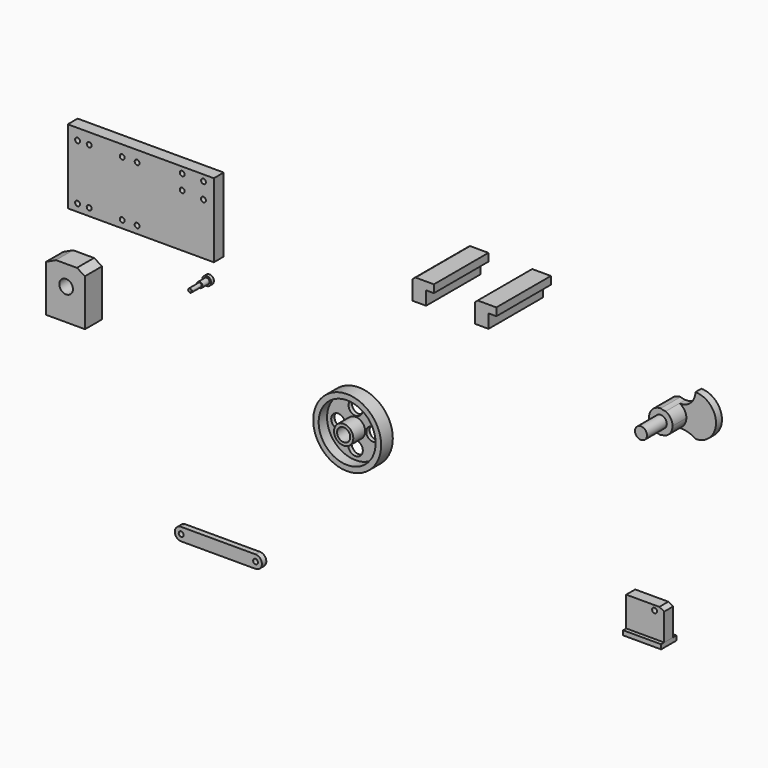
from build123d import *

# Parameters (mm, degrees)
F0_R      = 2.006248
F1_DEPTH  = 25.4
F0_R_2    = 2.867219
F2_DEPTH  = 12.7
F0_R_3    = 4.599774
F3_DEPTH  = 3.81
F4_R      = 0.490568
F0_R_4    = 6.143117
F5_DEPTH  = 50.8
F6_DEPTH  = 25.4
F7_DEPTH  = 7.62
F0_R_5    = 9.884169
F0_R_6    = 6.763319
F8_DEPTH  = 19.5072
F0_R_7    = 34.868966
F0_R_8    = 29.269133
F9_DEPTH  = 15.0114
F0_R_9    = 7.462005
F0_R_10   = 7.192248
F0_R_11   = 6.804936
F0_R_12   = 7.215767
F10_DEPTH = 4.2418
F0_W      = 150.0124
F0_H      = 75.9968
F0_R_13   = 2.5019
F0_R_14   = 2.546456
F0_R_15   = 2.478176
F11_DEPTH = 12.7
F0_W_2    = 40.005
F0_H_2    = 47.9806
F0_R_16   = 7.000389
F12_DEPTH = 21.9964
F0_W_3    = 39.055347
F0_H_3    = 4.657001
F13_DEPTH = 9.7917
F0_R_17   = 2.516641
F14_DEPTH = 5.7912
F0_R_18   = 2.499653
F15_DEPTH = 5.6642
F0_W_4    = 14.001787
F0_H_4    = 13.9954
F0_W_5    = 13.9954
F16_DEPTH = 70.0024


with BuildPart() as f1:
    # F0 (on Front) → F1 (new body)
    with BuildSketch(Plane.XZ):
        with Locations((-121.826321, -89.848548)):
            Circle(F0_R)
    extrude(amount=F1_DEPTH)

    # F0 (on Front) → F2 (join)
    with BuildSketch(Plane.XZ):
        with Locations((-121.826321, -89.848548)):
            Circle(F0_R_2)
        with Locations((-121.826321, -89.848548)):
            Circle(F0_R, mode=Mode.SUBTRACT)
    extrude(amount=F2_DEPTH)

    # F0 (on Front) → F3 (join)
    with BuildSketch(Plane.XZ):
        with Locations((-121.826321, -89.848548)):
            Circle(F0_R_3)
        with Locations((-121.826321, -89.848548)):
            Circle(F0_R_2, mode=Mode.SUBTRACT)
    extrude(amount=F3_DEPTH)

    # F4
    f4_edges = [f1.edges().sort_by_distance(p)[0] for p in [
        (-126.426095, 0, -89.848548),
        (-123.832569, -25.4, -89.848548),
    ]]
    fillet(f4_edges, radius=F4_R)


with BuildPart() as f5:
    # F0 (on Front) → F5 (new body)
    with BuildSketch(Plane.XZ):
        with Locations((361.786572, -51.028976)):
            Circle(F0_R_4)
    extrude(amount=F5_DEPTH)

    # F0 (on Front) → F6 (join)
    with BuildSketch(Plane.XZ):
        with BuildLine():
            ThreePointArc((361.786572, -63.065374), (363.896659, -62.586014), (366.039999, -62.288783))
            ThreePointArc((366.039999, -62.288783), (371.687855, -57.872913), (373.82297, -51.028976))
            ThreePointArc((373.82297, -51.028976), (371.919023, -44.532183), (366.809523, -40.090748))
            ThreePointArc((366.809523, -40.090748), (364.252296, -39.750928), (361.786572, -38.992578))
            ThreePointArc((361.786572, -38.992578), (349.750174, -51.028976), (361.786572, -63.065374))
        make_face()
        with Locations((361.786572, -51.028976)):
            Circle(F0_R_4, mode=Mode.SUBTRACT)
    extrude(amount=F6_DEPTH)

    # F0 (on Front) → F7 (join)
    with BuildSketch(Plane.XZ):
        with BuildLine():
            Line((383.103815, -24.575638), (383.103815, -66.860532))
            ThreePointArc((383.103815, -66.860532), (404.246262, -45.718085), (383.103815, -24.575638))
        make_face()
        with BuildLine():
            ThreePointArc((366.039999, -62.288783), (374.984062, -63.036309), (383.103815, -66.860532))
            Line((383.103815, -66.860532), (383.103815, -24.575638))
            ThreePointArc((383.103815, -24.575638), (378.281818, -35.825333), (366.809523, -40.090748))
            ThreePointArc((366.809523, -40.090748), (371.919023, -44.532183), (373.82297, -51.028976))
            ThreePointArc((373.82297, -51.028976), (371.687855, -57.872913), (366.039999, -62.288783))
        make_face()
    extrude(amount=F7_DEPTH)


with BuildPart() as f8:
    # F0 (on Front) → F8 (new body)
    with BuildSketch(Plane.XZ):
        with Locations((31.381525, -172.658786)):
            Circle(F0_R_5)
        with Locations((31.381525, -172.658786)):
            Circle(F0_R_6, mode=Mode.SUBTRACT)
    extrude(amount=F8_DEPTH)


with BuildPart() as f9:
    # F0 (on Front) → F9 (new body)
    with BuildSketch(Plane.XZ):
        with Locations((31.381525, -172.658786)):
            Circle(F0_R_7)
        with Locations((31.381525, -172.658786)):
            Circle(F0_R_8, mode=Mode.SUBTRACT)
    extrude(amount=F9_DEPTH)


with BuildPart() as f10:
    # F0 (on Front) → F10 (new body)
    with BuildSketch(Plane.XZ):
        with Locations((31.381525, -172.658786)):
            Circle(F0_R_8)
        with Locations((31.381525, -190.806657)):
            Circle(F0_R_9, mode=Mode.SUBTRACT)
        with Locations((13.569722, -172.658786)):
            Circle(F0_R_10, mode=Mode.SUBTRACT)
        with Locations((31.381525, -172.658786)):
            Circle(F0_R_5, mode=Mode.SUBTRACT)
        with Locations((49.193326, -172.658786)):
            Circle(F0_R_11, mode=Mode.SUBTRACT)
        with Locations((31.381525, -154.510915)):
            Circle(F0_R_12, mode=Mode.SUBTRACT)
    extrude(amount=F10_DEPTH)


with BuildPart() as f11:
    # F0 (on Front) → F11 (new body)
    with BuildSketch(Plane.XZ):
        with Locations((-182.393597, -26.675419)):
            Rectangle(F0_W, F0_H)
        with Locations((-247.370958, -56.989655)):
            Circle(F0_R_13, mode=Mode.SUBTRACT)
        with Locations((-235.428393, -56.989655)):
            Circle(F0_R_13, mode=Mode.SUBTRACT)
        with Locations((-201.502547, -56.989655)):
            Circle(F0_R_13, mode=Mode.SUBTRACT)
        with Locations((-186.188743, -56.989655)):
            Circle(F0_R_13, mode=Mode.SUBTRACT)
        with Locations((-247.370958, 0)):
            Circle(F0_R_14, mode=Mode.SUBTRACT)
        with Locations((-235.428393, 0)):
            Circle(F0_R_15, mode=Mode.SUBTRACT)
        with Locations((-201.502547, 0)):
            Circle(F0_R_13, mode=Mode.SUBTRACT)
        with Locations((-186.188743, 0)):
            Circle(F0_R_13, mode=Mode.SUBTRACT)
        with Locations((-139.864504, -10.282566)):
            Circle(F0_R_13, mode=Mode.SUBTRACT)
        with Locations((-118.04235, -11.431101)):
            Circle(F0_R_13, mode=Mode.SUBTRACT)
        with Locations((-139.864504, 5.031238)):
            Circle(F0_R_13, mode=Mode.SUBTRACT)
        with Locations((-118.04235, 5.031238)):
            Circle(F0_R_13, mode=Mode.SUBTRACT)
    extrude(amount=F11_DEPTH)


with BuildPart() as f12:
    # F0 (on Front) → F12 (new body)
    with BuildSketch(Plane.XZ):
        with Locations((-252.228863, -138.020165)):
            Rectangle(F0_W_2, F0_H_2)
        with Locations((-251.652062, -129.865393)):
            Circle(F0_R_16, mode=Mode.SUBTRACT)
        Polygon((-262.013469, -109.215125), (-272.231363, -114.029865), (-232.226363, -114.029865), (-240.583956, -109.215125), align=None)
    extrude(amount=F12_DEPTH)


with BuildPart() as f13:
    # F0 (on Front) → F13 (new body, symmetric)
    with BuildSketch(Plane.XZ):
        with Locations((330.093413, -264.907732)):
            Rectangle(F0_W_3, F0_H_3)
    extrude(amount=F13_DEPTH, both=True)

    # F0 (on Front) → F14 (join, symmetric)
    with BuildSketch(Plane.XZ):
        Polygon((310.56574, -232.030347), (310.56574, -262.579232), (349.621087, -262.579232), (349.621087, -234.649613), (344.588369, -232.030347), align=None)
        with Locations((339.640856, -236.880839)):
            Circle(F0_R_17, mode=Mode.SUBTRACT)
    extrude(amount=F14_DEPTH, both=True)


with BuildPart() as f15:
    # F0 (on Front) → F15 (new body)
    with BuildSketch(Plane.XZ):
        with BuildLine():
            Line((-70.193112, -319.473028), (-146.5749, -319.473028))
            ThreePointArc((-146.5749, -319.473028), (-153.132915, -326.031044), (-146.5749, -332.58906))
            Line((-146.5749, -332.58906), (-70.193112, -332.58906))
            ThreePointArc((-70.193112, -332.58906), (-63.635096, -326.031044), (-70.193112, -319.473028))
        make_face()
        with Locations((-146.5749, -326.031044)):
            Circle(F0_R_18, mode=Mode.SUBTRACT)
        with Locations((-70.193112, -326.031044)):
            Circle(F0_R_13, mode=Mode.SUBTRACT)
    extrude(amount=F15_DEPTH)


with BuildPart() as f16:
    # F0 (on Front) → F16 (new body)
    with BuildSketch(Plane.XZ):
        with Locations((213.608443, 12.111869)):
            Rectangle(F0_W_4, F0_H_4)
        Polygon((206.60755, 24.694499), (206.60755, 19.109569), (220.609337, 19.109569), (228.60395, 19.109569), (228.60395, 27.110569), (209.409773, 27.110569), align=None)
        with Locations((149.437468, 12.111869)):
            Rectangle(F0_W_5, F0_H_4)
        Polygon((142.439768, 24.734763), (142.439768, 19.109569), (156.435168, 19.109569), (164.436168, 19.109569), (164.436168, 27.110569), (145.533785, 27.110569), align=None)
    extrude(amount=F16_DEPTH)


solid = Compound([f1.part, f5.part, f8.part, f9.part, f10.part, f11.part, f12.part, f13.part, f15.part, f16.part])
